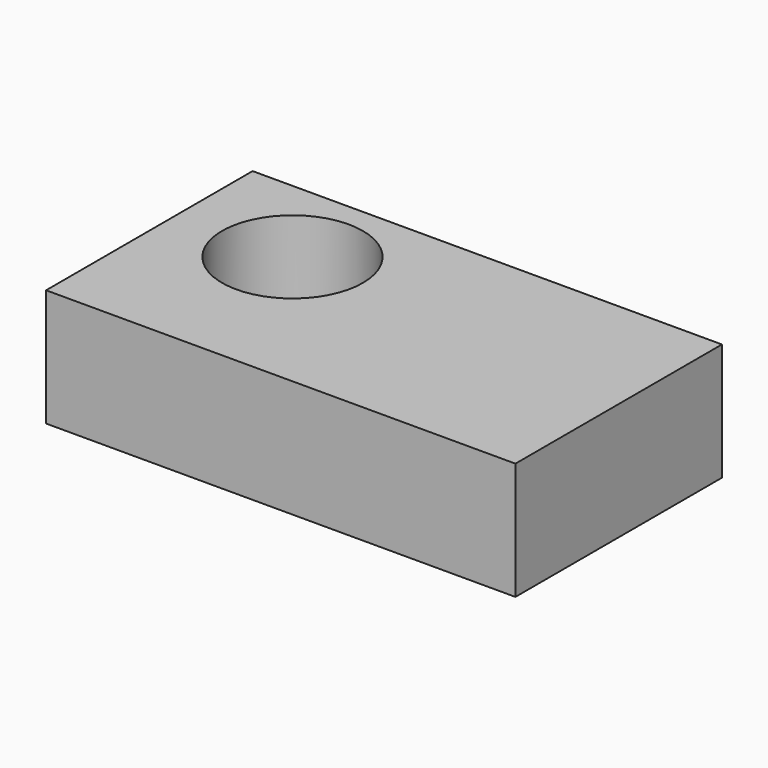
from build123d import *

# Parameters (mm, degrees)
SKETCH_W  = 200
SKETCH_H  = 110
SKETCH_R  = 30
PAD_DEPTH = 50


with BuildPart() as part:
    # Sketch → Pad (new body)
    with BuildSketch(Plane.XY):
        with Locations((100, 55)):
            Rectangle(SKETCH_W, SKETCH_H)
        with Locations((49, 70)):
            Circle(SKETCH_R, mode=Mode.SUBTRACT)
    extrude(amount=PAD_DEPTH)


solid = part.part
